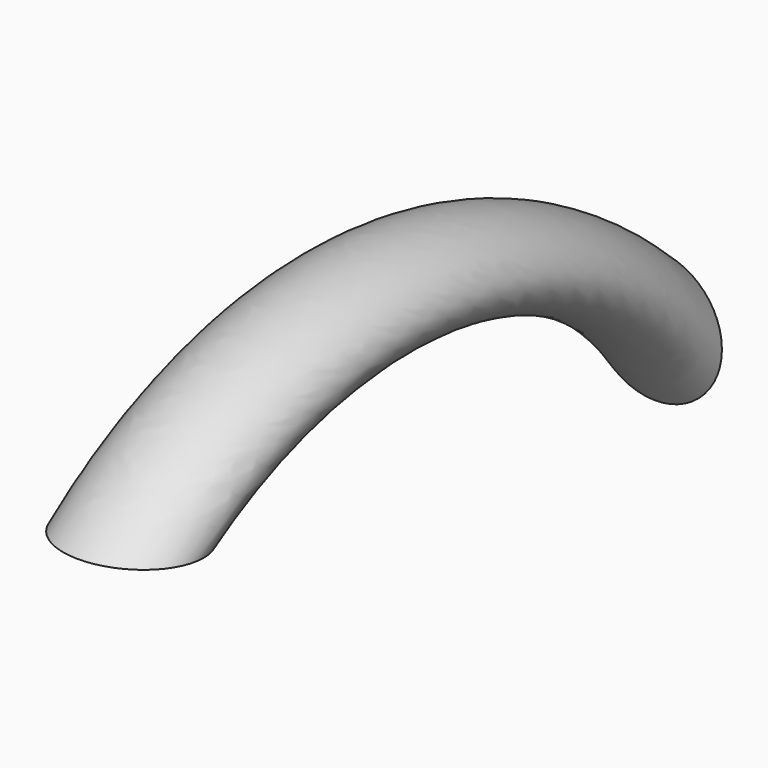
from build123d import *

# Parameters (mm, degrees)
F0_R = 6.35


with BuildPart() as f2:
    # F2: sweep along a path in F1
    with BuildLine(Plane.YZ) as f2_path:
        ThreePointArc((0, 21.578525), (-29.78499, 37.437379), (-62.517516, 29.237955))
    # F0 (on Front) → F2 (sweep)
    with BuildSketch(Plane.XZ):
        with Locations((0, 21.578525)):
            Circle(F0_R)
    sweep(path=f2_path.line)


solid = f2.part
